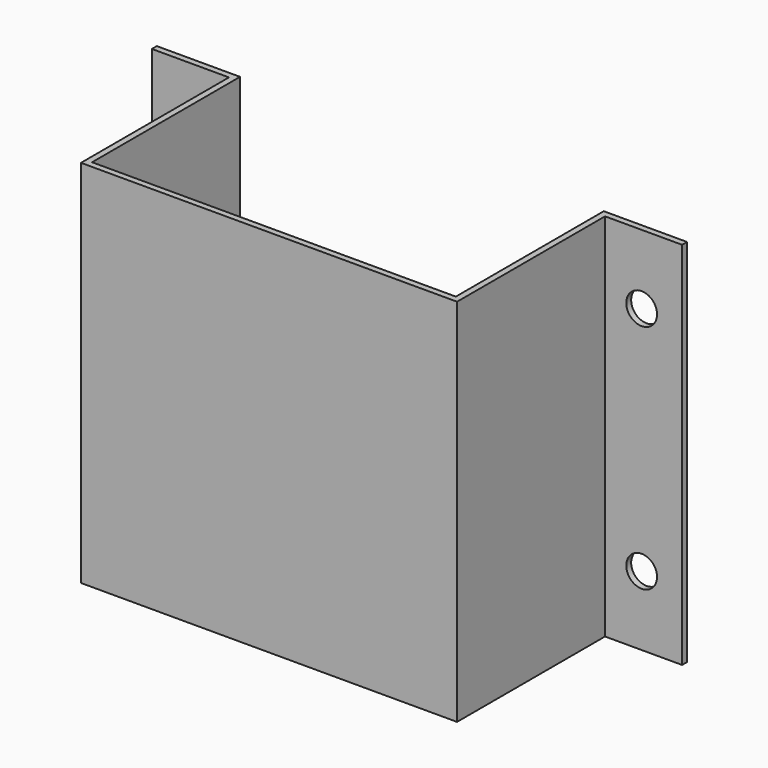
from build123d import *

# Parameters (mm, degrees)
F1_DEPTH = 120
F2_R     = 5
F3_DEPTH = 25
F4_R     = 5
F5_DEPTH = 25


with BuildPart() as f1:
    # F0 (on Top) → F1 (new body)
    with BuildSketch(Plane.XY):
        Polygon((-59, 0), (-86, 0), (-86, -2), (-61, -2), (-61, -62), (61, -62), (61, -2), (86, -2), (86, 0), (59, 0), (59, -60), (-59, -60), align=None)
    extrude(amount=F1_DEPTH)

    # F2 (on face) → F3 (cut)
    with BuildSketch(Plane.XZ.offset(2)):
        with Locations((-73.5, 97.5)):
            Circle(F2_R)
        with Locations((-73.5, 22.5)):
            Circle(F2_R)
    extrude(amount=-F3_DEPTH, mode=Mode.SUBTRACT)

    # F4 (on face) → F5 (cut)
    with BuildSketch(Plane.XZ.offset(2)):
        with Locations((72.881177, 97.5)):
            Circle(F4_R)
        with Locations((72.881177, 22.5)):
            Circle(F4_R)
    extrude(amount=-F5_DEPTH, mode=Mode.SUBTRACT)


solid = f1.part
